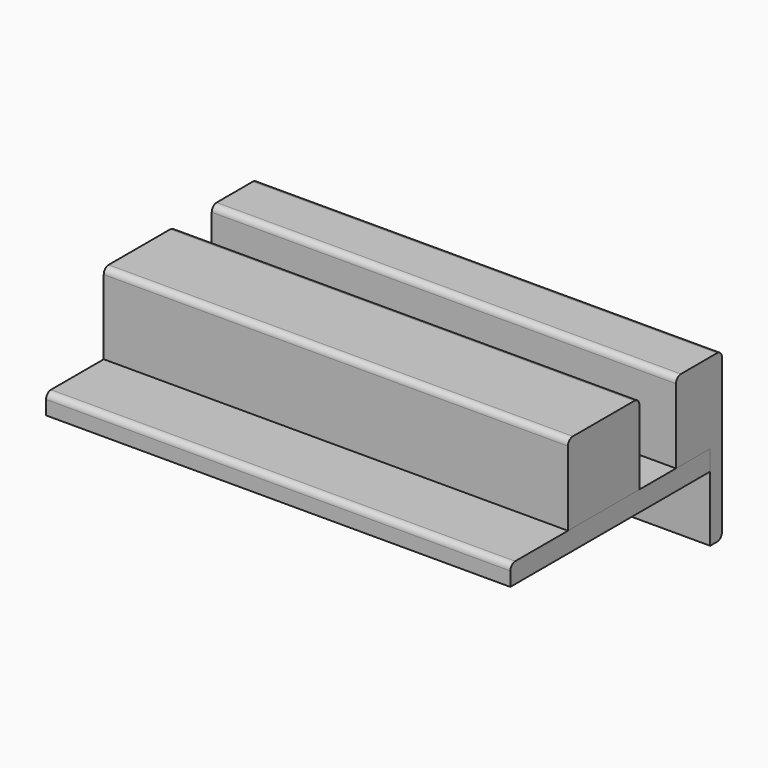
from build123d import *

# Parameters (mm, degrees)
F0_W     = 76
F0_H     = 7
F0_H_2   = 2.4
F1_DEPTH = 13.2
F0_H_3   = 14.6
F0_H_4   = 7.5
F0_H_5   = 11.8
F2_DEPTH = 3.3
F3_DEPTH = 14
F4_R     = 1
F4_2_R   = 1
F5_R     = 1
F6_R     = 1
F8_DEPTH = 2.401


with BuildPart() as f1:
    # F0 (on Top) → F1 (new body)
    with BuildSketch(Plane.XY):
        with Locations((38, -5.9)):
            Rectangle(F0_W, F0_H)
        with Locations((38, -1.2)):
            Rectangle(F0_W, F0_H_2)
    extrude(amount=F1_DEPTH)

    # F0 (on Top) → F3 (join)
    with BuildSketch(Plane.XY):
        with Locations((38, -1.2)):
            Rectangle(F0_W, F0_H_2)
    extrude(amount=-F3_DEPTH)

    # F4
    f4_edges = [f1.edges().sort_by_distance(p)[0] for p in [
        (38, 0, 13.2),
        (38, -9.4, 13.2),
    ]]
    fillet(f4_edges, radius=F4_R)

    # F5
    f5_edges = [f1.edges().sort_by_distance(p)[0] for p in [
        (38, 0, -14),
    ]]
    fillet(f5_edges, radius=F5_R)

    # F7 (on face) → F8 (cut, through all)
    with BuildSketch(Plane.XZ.offset(2.4)):
        with BuildLine():
            ThreePointArc((11.7, -9.3), (12.7, -10.3), (13.7, -9.3))
            Line((13.7, -9.3), (13.7, -7.3))
            ThreePointArc((13.7, -7.3), (12.7, -6.3), (11.7, -7.3))
            Line((11.7, -7.3), (11.7, -9.3))
        make_face()
        with BuildLine():
            ThreePointArc((62.3, -9.3), (63.3, -10.3), (64.3, -9.3))
            Line((64.3, -9.3), (64.3, -7.3))
            ThreePointArc((64.3, -7.3), (63.3, -6.3), (62.3, -7.3))
            Line((62.3, -7.3), (62.3, -9.3))
        make_face()
    extrude(amount=-F8_DEPTH, mode=Mode.SUBTRACT)


with BuildPart() as f1b:
    # F0 (on Top) → F1, piece 2 (new body)
    with BuildSketch(Plane.XY):
        with Locations((38, -24.2)):
            Rectangle(F0_W, F0_H_3)
    extrude(amount=F1_DEPTH)

    # F4#2
    f4_2_edges = [f1b.edges().sort_by_distance(p)[0] for p in [
        (38, -16.9, 13.2),
        (38, -31.5, 13.2),
    ]]
    fillet(f4_2_edges, radius=F4_2_R)


with BuildPart() as f2:
    # F0 (on Top) → F2 (new body)
    with BuildSketch(Plane.XY):
        with Locations((38, -5.9)):
            Rectangle(F0_W, F0_H)
        with Locations((38, -13.15)):
            Rectangle(F0_W, F0_H_4)
        with Locations((38, -24.2)):
            Rectangle(F0_W, F0_H_3)
        with Locations((38, -37.4)):
            Rectangle(F0_W, F0_H_5)
    extrude(amount=-F2_DEPTH)

    # F6
    f6_edges = [f2.edges().sort_by_distance(p)[0] for p in [
        (38, -43.3, 0),
    ]]
    fillet(f6_edges, radius=F6_R)


solid = Compound([f1.part, f1b.part, f2.part])
